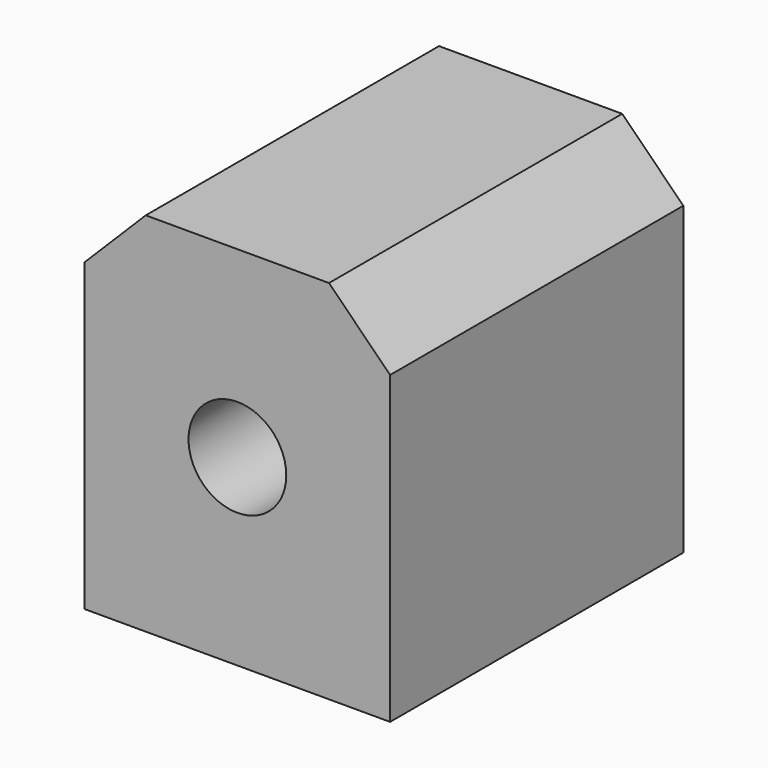
from build123d import *

# Parameters (mm, degrees)
F0_W     = 50
F0_H     = 60
F0_R     = 8
F1_DEPTH = 60
F2_SIZE  = 10


with BuildPart() as f1:
    # F0 (on Front) → F1 (new body)
    with BuildSketch(Plane.XZ):
        with Locations((25, 30)):
            Rectangle(F0_W, F0_H)
        with Locations((25, 30)):
            Circle(F0_R, mode=Mode.SUBTRACT)
    extrude(amount=F1_DEPTH)

    # F2
    f2_edges = [f1.edges().sort_by_distance(p)[0] for p in [
        (50, -30, 60),
        (0, -30, 60),
    ]]
    chamfer(f2_edges, length=F2_SIZE)


solid = f1.part
